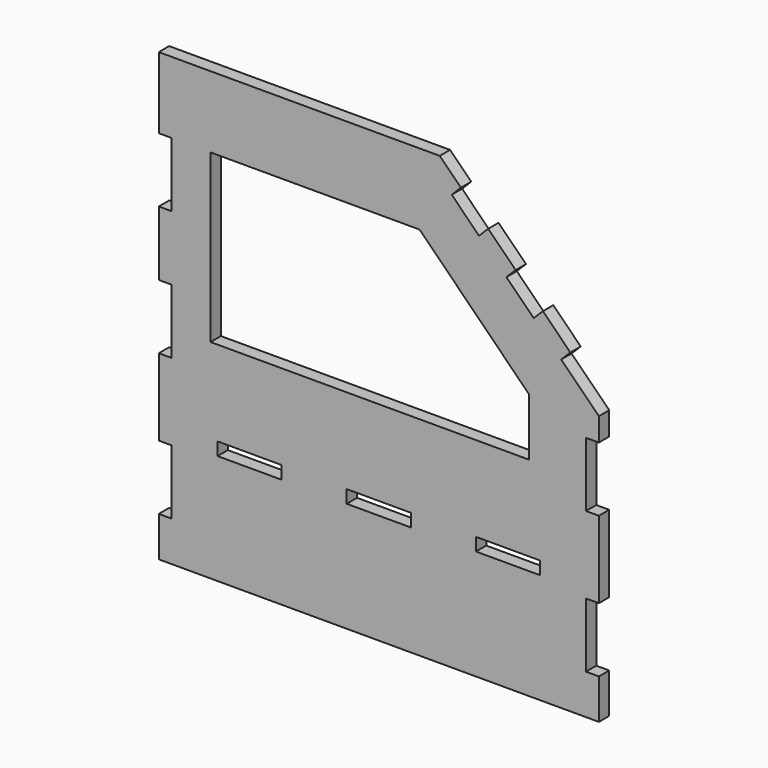
from build123d import *

# Parameters (mm, degrees)
SKETCH_W  = 49.6
SKETCH_H  = 10
PAD_DEPTH = 10


with BuildPart() as part:
    # Sketch → Pad (new body)
    with BuildSketch(Plane.XZ):
        Polygon((0, 0), (0, 30.933), (10, 30.933), (10, 80.733), (0, 80.733), (0, 140.2), (10, 140.2), (10, 190), (0, 190), (0, 240), (10, 240), (10, 289.8), (0, 289.8), (0, 345), (217.0709, 345), (233.405067, 328.665833), (226.333999, 321.594766), (247.405781, 300.522983), (254.476849, 307.594051), (275.690052, 286.380848), (268.618985, 279.30978), (289.690767, 258.237998), (296.761835, 265.309066), (317.975038, 244.095862), (310.90397, 237.024795), (340, 207.928765), (340, 189.999765), (330, 189.999765), (330, 140.199765), (340, 140.199765), (340, 80.733), (330, 80.733), (330, 30.933), (340, 30.933), (340, 0), align=None)
        with Locations((70.2, 90)):
            Rectangle(SKETCH_W, SKETCH_H, mode=Mode.SUBTRACT)
        with Locations((170, 90)):
            Rectangle(SKETCH_W, SKETCH_H, mode=Mode.SUBTRACT)
        with Locations((269.8, 90)):
            Rectangle(SKETCH_W, SKETCH_H, mode=Mode.SUBTRACT)
        Polygon((40, 289.8), (40, 160.8), (286, 160.8), (286, 205.3), (201.5, 289.8), align=None, mode=Mode.SUBTRACT)
    extrude(amount=PAD_DEPTH)


solid = part.part
